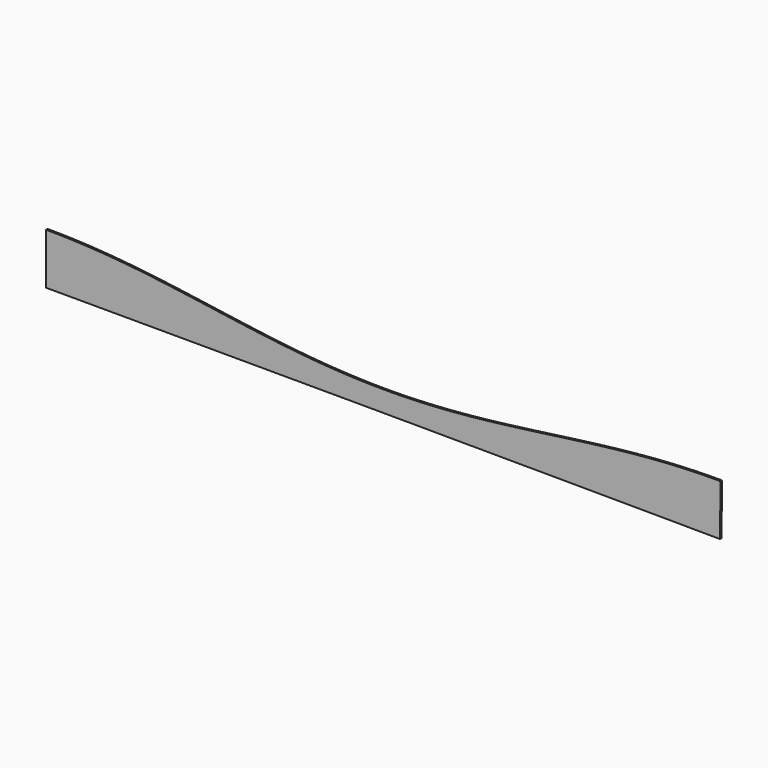
from build123d import *

# Parameters (mm, degrees)
F1_DEPTH = 2


with BuildPart() as f1:
    # F0 (on Front) → F1 (new body)
    with BuildSketch(Plane.XZ):
        Polygon((341.534929, -28.058502), (356.966048, -28.153636), (357.058567, -13.520987), (357.14314, 0.344884), (357.225435, 13.506259), (357.302116, 25.960613), (344.124817, 25.907653), (331.702072, 25.667022), (319.490137, 25.24664), (307.833444, 24.685407), (296.7833, 24.004949), (286.593086, 23.266411), (277.052342, 22.482843), (267.589855, 21.624513), (258.145719, 20.687782), (248.686227, 19.674382), (239.154539, 18.589995), (229.600551, 17.446419), (220.018542, 16.249525), (210.352012, 15.001289), (200.719203, 13.727049), (191.075985, 12.431023), (181.310001, 11.105342), (171.644371, 9.790678), (161.946013, 8.479502), (152.183263, 7.173676), (142.562253, 5.916581), (132.821793, 4.680022), (123.116429, 3.48767), (113.512568, 2.360951), (103.82999, 1.289697), (94.263922, 0.300939), (84.571442, -0.62175), (74.917203, -1.454715), (65.32775, -2.190237), (54.787732, -2.897463), (43.383575, -3.518085), (31.996695, -3.996672), (20.818726, -4.321094), (9.758981, -4.493711), (-1.244042, -4.513684), (-12.259593, -4.388977), (-23.345099, -4.118193), (-34.573903, -3.699333), (-46.041869, -3.119472), (-57.022238, -2.428583), (-66.99951, -1.682607), (-76.73368, -0.860196), (-86.478549, 0.054639), (-96.15119, 1.045739), (-105.981589, 2.131847), (-115.737887, 3.28168), (-125.436307, 4.486239), (-135.260845, 5.760683), (-144.961603, 7.06375), (-154.720782, 8.409021), (-164.54094, 9.785917), (-174.176907, 11.15122), (-183.992813, 12.548345), (-193.792265, 13.935816), (-203.378683, 15.27843), (-213.098511, 16.616009), (-222.701278, 17.904468), (-232.280879, 19.15123), (-241.893018, 20.350003), (-251.319585, 21.466152), (-260.794959, 22.522131), (-270.19885, 23.499102), (-279.448453, 24.383728), (-288.772861, 25.192871), (-298.449102, 25.940754), (-309.432381, 26.661025), (-321.194351, 27.28068), (-332.918315, 27.739166), (-344.744725, 28.028748), (-357.302139, 28.152693), (-357.303667, 15.744074), (-357.302646, 2.61454), (-357.303246, -11.277673), (-357.30003, -25.965329), (-340.90283, -25.965152), (-325.336537, -25.969401), (-309.766801, -25.979251), (-294.209635, -25.992532), (-278.648307, -26.010654), (-263.082864, -26.030401), (-247.517312, -26.055765), (-231.946501, -26.078058), (-216.384599, -26.10002), (-200.812666, -26.121751), (-185.247179, -26.149036), (-169.684106, -26.178218), (-154.298815, -26.203223), (-139.251067, -26.232723), (-124.531818, -26.256303), (-110.172251, -26.2848), (-96.388804, -26.306807), (-83.269845, -26.329855), (-70.722042, -26.353187), (-58.65545, -26.372293), (-46.972701, -26.391933), (-35.575717, -26.414697), (-24.397132, -26.441673), (-13.347235, -26.471578), (-2.353553, -26.504394), (8.629086, -26.54073), (19.633059, -26.579393), (30.740721, -26.617289), (41.99277, -26.656967), (53.523999, -26.70359), (65.366453, -26.75632), (77.621744, -26.812276), (90.399196, -26.864686), (103.763584, -26.913837), (117.654138, -26.968942), (131.92007, -27.026549), (146.496204, -27.086329), (161.404867, -27.149542), (176.55296, -27.21422), (191.754428, -27.278819), (206.91672, -27.348047), (222.09071, -27.417026), (237.133835, -27.491316), (252.246593, -27.564702), (267.221448, -27.644065), (282.187505, -27.722712), (297.093788, -27.806754), (311.967113, -27.888843), (326.813762, -27.97379), align=None)
    extrude(amount=F1_DEPTH)


solid = f1.part
